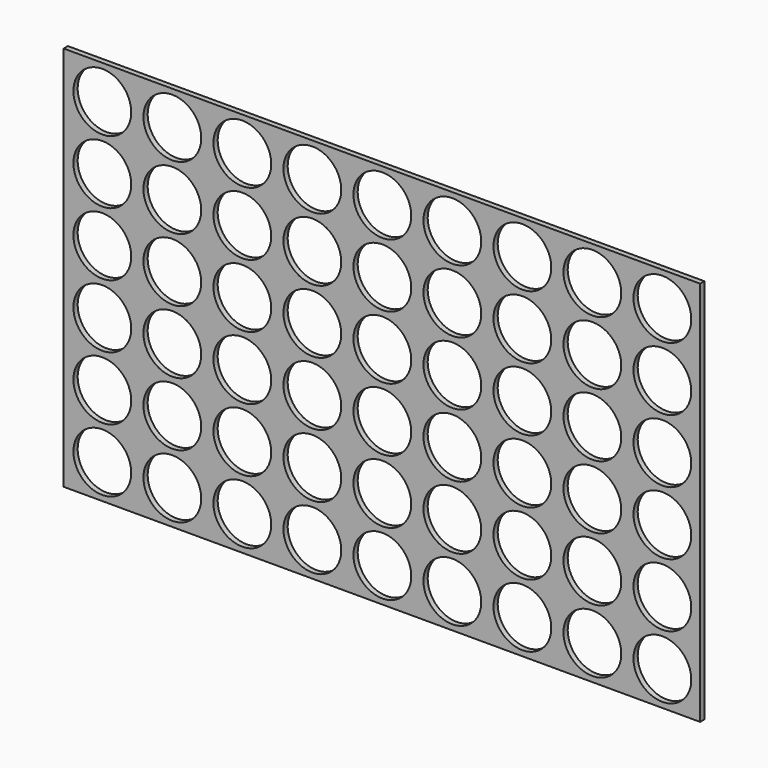
from build123d import *

# Parameters (mm, degrees)
F0_W     = 1200
F0_H     = 727.5
F1_DEPTH = 10
F3_R     = 54.5
F3_R_2   = 54.499989
F4_DEPTH = 10.001


with BuildPart() as f1:
    # F0 (on Front) → F1 (new body)
    with BuildSketch(Plane.XZ):
        with Locations((4.264114, -31.124183)):
            Rectangle(F0_W, F0_H)
    extrude(amount=F1_DEPTH)

    # F3 (on face) → F4 (cut, through all)
    with BuildSketch(Plane(origin=(0, 0, 0), x_dir=(-1, 0, 0), z_dir=(0, 1, 0))):
        with Locations((-533.153004, 268.125817)):
            Circle(F3_R)
        with Locations((-533.153004, 148.449618)):
            Circle(F3_R)
        with Locations((-533.153004, 28.773419)):
            Circle(F3_R)
        with Locations((-533.153004, -90.90278)):
            Circle(F3_R)
        with Locations((-533.153004, -210.578979)):
            Circle(F3_R)
        with Locations((-533.153004, -330.255178)):
            Circle(F3_R_2)
        with Locations((-401.153004, -330.255178)):
            Circle(F3_R)
        with Locations((-401.153004, -210.578979)):
            Circle(F3_R)
        with Locations((-401.153004, -90.90278)):
            Circle(F3_R)
        with Locations((-401.153004, 268.125817)):
            Circle(F3_R)
        with Locations((-401.153004, 148.449618)):
            Circle(F3_R)
        with Locations((-401.153004, 28.773419)):
            Circle(F3_R)
        with Locations((-269.153004, -330.255178)):
            Circle(F3_R)
        with Locations((-269.153004, -210.578979)):
            Circle(F3_R)
        with Locations((-269.153004, -90.90278)):
            Circle(F3_R)
        with Locations((-269.153004, 268.125817)):
            Circle(F3_R)
        with Locations((-269.153004, 148.449618)):
            Circle(F3_R)
        with Locations((-269.153004, 28.773419)):
            Circle(F3_R)
        with Locations((-137.153004, -330.255178)):
            Circle(F3_R)
        with Locations((-137.153004, -210.578979)):
            Circle(F3_R)
        with Locations((-137.153004, -90.90278)):
            Circle(F3_R)
        with Locations((-137.153004, 268.125817)):
            Circle(F3_R)
        with Locations((-137.153004, 148.449618)):
            Circle(F3_R)
        with Locations((-137.153004, 28.773419)):
            Circle(F3_R)
        with Locations((-5.153004, -330.255178)):
            Circle(F3_R)
        with Locations((-5.153004, -210.578979)):
            Circle(F3_R)
        with Locations((-5.153004, -90.90278)):
            Circle(F3_R)
        with Locations((-5.153004, 268.125817)):
            Circle(F3_R)
        with Locations((-5.153004, 148.449618)):
            Circle(F3_R)
        with Locations((-5.153004, 28.773419)):
            Circle(F3_R)
        with Locations((126.846996, -330.255178)):
            Circle(F3_R)
        with Locations((126.846996, -210.578979)):
            Circle(F3_R)
        with Locations((126.846996, -90.90278)):
            Circle(F3_R)
        with Locations((126.846996, 268.125817)):
            Circle(F3_R)
        with Locations((126.846996, 148.449618)):
            Circle(F3_R)
        with Locations((126.846996, 28.773419)):
            Circle(F3_R)
        with Locations((258.846996, -330.255178)):
            Circle(F3_R)
        with Locations((258.846996, -210.578979)):
            Circle(F3_R)
        with Locations((258.846996, -90.90278)):
            Circle(F3_R)
        with Locations((258.846996, 268.125817)):
            Circle(F3_R)
        with Locations((258.846996, 148.449618)):
            Circle(F3_R)
        with Locations((258.846996, 28.773419)):
            Circle(F3_R)
        with Locations((390.846996, -330.255178)):
            Circle(F3_R)
        with Locations((390.846996, -210.578979)):
            Circle(F3_R)
        with Locations((390.846996, -90.90278)):
            Circle(F3_R)
        with Locations((390.846996, 268.125817)):
            Circle(F3_R)
        with Locations((390.846996, 148.449618)):
            Circle(F3_R)
        with Locations((390.846996, 28.773419)):
            Circle(F3_R)
        with Locations((522.846996, -330.255178)):
            Circle(F3_R)
        with Locations((522.846996, -210.578979)):
            Circle(F3_R)
        with Locations((522.846996, -90.90278)):
            Circle(F3_R)
        with Locations((522.846996, 268.125817)):
            Circle(F3_R)
        with Locations((522.846996, 148.449618)):
            Circle(F3_R)
        with Locations((522.846996, 28.773419)):
            Circle(F3_R)
    extrude(amount=-F4_DEPTH, mode=Mode.SUBTRACT)


solid = f1.part
